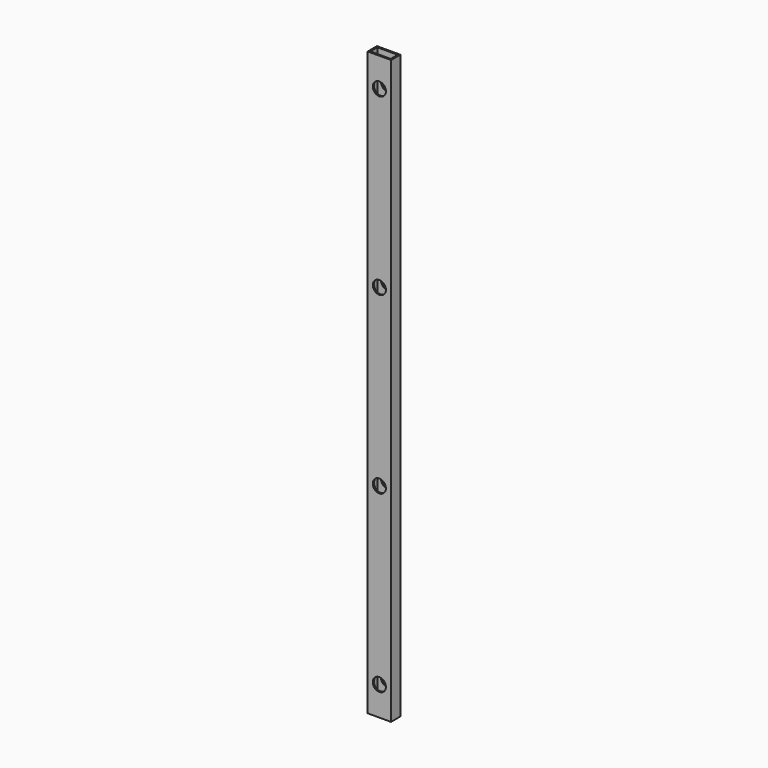
from build123d import *

# Parameters (mm, degrees)
F0_W     = 50.8
F0_H     = 25.4
F0_W_2   = 44.45
F0_H_2   = 19.05
F1_DEPTH = 1270
F3_DEPTH = 25.4


with BuildPart() as f1:
    # F0 (on Top) → F1 (new body)
    with BuildSketch(Plane.XY):
        Rectangle(F0_W, F0_H)
        Rectangle(F0_W_2, F0_H_2, mode=Mode.SUBTRACT)
    extrude(amount=F1_DEPTH)

    # F2 (on face) → F3 (cut)
    with BuildSketch(Plane.XZ.offset(12.7)):
        with BuildLine():
            ThreePointArc((14.3129, 1206.5), (-10.120749, 1216.620749), (0, 1192.1871))
            ThreePointArc((0, 1192.1871), (10.120749, 1196.379251), (14.3129, 1206.5))
        make_face()
        with BuildLine():
            Line((0, 825.5), (0, 811.1871))
            ThreePointArc((0, 811.1871), (10.120749, 815.379251), (14.3129, 825.5))
            ThreePointArc((14.3129, 825.5), (10.120749, 835.620749), (0, 839.8129))
            Line((0, 839.8129), (0, 825.5))
        make_face()
        with BuildLine():
            ThreePointArc((0, 839.8129), (-14.3129, 825.5), (0, 811.1871))
            Line((0, 811.1871), (0, 825.5))
            Line((0, 825.5), (0, 839.8129))
        make_face()
        with BuildLine():
            Line((0, 444.5), (0, 430.1871))
            ThreePointArc((0, 430.1871), (10.120749, 434.379251), (14.3129, 444.5))
            ThreePointArc((14.3129, 444.5), (10.120749, 454.620749), (0, 458.8129))
            Line((0, 458.8129), (0, 444.5))
        make_face()
        with BuildLine():
            ThreePointArc((0, 458.8129), (-14.3129, 444.5), (0, 430.1871))
            Line((0, 430.1871), (0, 444.5))
            Line((0, 444.5), (0, 458.8129))
        make_face()
        with BuildLine():
            Line((0, 63.5), (0, 49.1871))
            ThreePointArc((0, 49.1871), (10.120749, 53.379251), (14.3129, 63.5))
            ThreePointArc((14.3129, 63.5), (10.120749, 73.620749), (0, 77.8129))
            Line((0, 77.8129), (0, 63.5))
        make_face()
        with BuildLine():
            ThreePointArc((0, 77.8129), (-14.3129, 63.5), (0, 49.1871))
            Line((0, 49.1871), (0, 63.5))
            Line((0, 63.5), (0, 77.8129))
        make_face()
    extrude(amount=-F3_DEPTH, mode=Mode.SUBTRACT)


solid = f1.part
